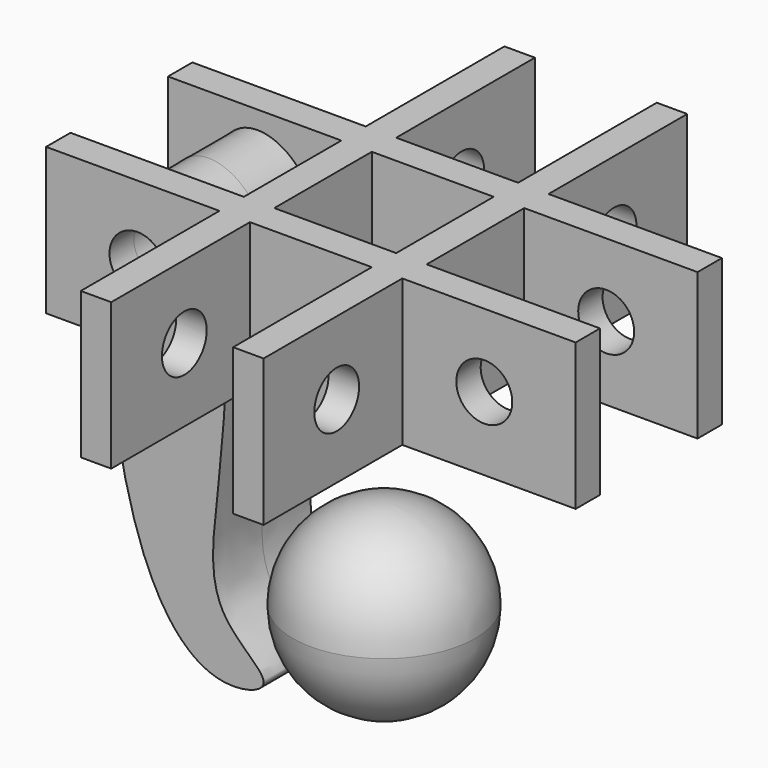
from build123d import *

# Parameters (mm, degrees)
F0_R     = 5.8296448985
F1_DEPTH = 12.7
F2_R     = 5.8296448985
F3_DEPTH = 6.35
F7_COUNT = 2
F7_ANGLE = 90


with BuildPart() as f1:
    # F0 (on Front) → F1 (new body, symmetric)
    with BuildSketch(Plane.XZ):
        with BuildLine():
            add(Edge.make_bspline(
                [(-14.9267353117, -14.0492627397), (-15.1369891049, -15.8968136043), (-26.8554645993, -19.2836718024), (-46.0937428118, 2.0066059776), (-51.757714941, 75.4174640139), (-22.5475000687, 67.7458792627), (-22.3060240213, 36.7563149765), (-24.9129702367, 15.166078863), (-26.7580104562, -4.9498647082), (-14.6766664174, -11.8518469641), (-14.9267353117, -14.0492627397)],
                knots=[0, 0, 0, 0, 0.077754142, 0.216419246, 0.4250700026, 0.5252249213, 0.6651346324, 0.7934125701, 0.9075218001, 1, 1, 1, 1], degree=3))
        make_face()
        with Locations((-36.1350104213, 58.5636347532)):
            Circle(F0_R, mode=Mode.SUBTRACT)
    extrude(amount=F1_DEPTH, both=True)


with BuildPart() as f3:
    # F2 (on face) → F3 (new body)
    with BuildSketch(Plane.XZ.offset(12.7)):
        with BuildLine():
            add(Edge.make_bspline(
                [(-47.3615958259, 43.278336525), (-47.511157861, 54.2378085352), (-44.4363155096, 73.494618308), (-24.2056264827, 68.181359021), (-22.5976763045, 51.6534360202), (-22.6787549296, 43.278336525)],
                knots=[0.3288875927, 0.3288875927, 0.3288875927, 0.3288875927, 0.4250700026, 0.5252249213, 0.6396631719, 0.6396631719, 0.6396631719, 0.6396631719], degree=3))
            Line((-47.3615958259, 43.278336525), (-22.6787549296, 43.278336525))
        make_face()
        with Locations((-36.1350104213, 58.5636347532)):
            Circle(F2_R, mode=Mode.SUBTRACT)
        with BuildLine():
            Line((0, 73.8155171275), (-55.1743544638, 73.8155171275))
            Line((-55.1743544638, 73.8155171275), (-55.1743544638, 43.278336525))
            Line((-55.1743544638, 43.278336525), (-47.3615958259, 43.278336525))
            add(Edge.make_bspline(
                [(-47.3615958259, 43.278336525), (-47.511157861, 54.2378085352), (-44.4363155096, 73.494618308), (-24.2056264827, 68.181359021), (-22.5976763045, 51.6534360202), (-22.6787549296, 43.278336525)],
                knots=[0.3288875927, 0.3288875927, 0.3288875927, 0.3288875927, 0.4250700026, 0.5252249213, 0.6396631719, 0.6396631719, 0.6396631719, 0.6396631719], degree=3))
            Line((-22.6787549296, 43.278336525), (0, 43.278336525))
            Line((0, 43.278336525), (0, 73.8155171275))
        make_face()
    extrude(amount=F3_DEPTH)


with BuildPart() as f4_1:
    # F4: instance of F3
    add(f3.part.mirror(Plane.XZ))


with BuildPart() as f5_1:
    # F5: instance of F4_1
    add(f4_1.part.mirror(Plane.YZ))


with BuildPart() as f5_2:
    # F5: instance of F3
    add(f3.part.mirror(Plane.YZ))


with BuildPart() as f3_1:
    add(f3.part)

    add(f4_1.part)  # F7 merges F4_1

    add(f5_1.part)  # F7 merges F5_1

    add(f5_2.part)  # F7 merges F5_2
    # F7: F3, F4_1, F5_1, F5_2 ×2 about axis
    f7_axis = Axis((0, 0, 29.4775608927), (0, 0, 1))
    for i in range(1, F7_COUNT):
        add(f3.part.rotate(f7_axis, i * F7_ANGLE / (F7_COUNT - 1)))
        add(f4_1.part.rotate(f7_axis, i * F7_ANGLE / (F7_COUNT - 1)))
        add(f5_1.part.rotate(f7_axis, i * F7_ANGLE / (F7_COUNT - 1)))
        add(f5_2.part.rotate(f7_axis, i * F7_ANGLE / (F7_COUNT - 1)))


with BuildPart() as f9:
    # F8 (on Front) → F9 (revolve)
    with BuildSketch(Plane.XZ):
        with BuildLine():
            ThreePointArc((0, -19), (13.4350288425, -13.4350288425), (19, 0))
            ThreePointArc((19, 0), (13.4350288425, 13.4350288425), (0, 19))
            Line((0, 19), (0, -19))
        make_face()
    revolve(axis=Axis((0, 0, 0), (0, 0, -1)))


solid = Compound([f1.part, f3_1.part, f9.part])
